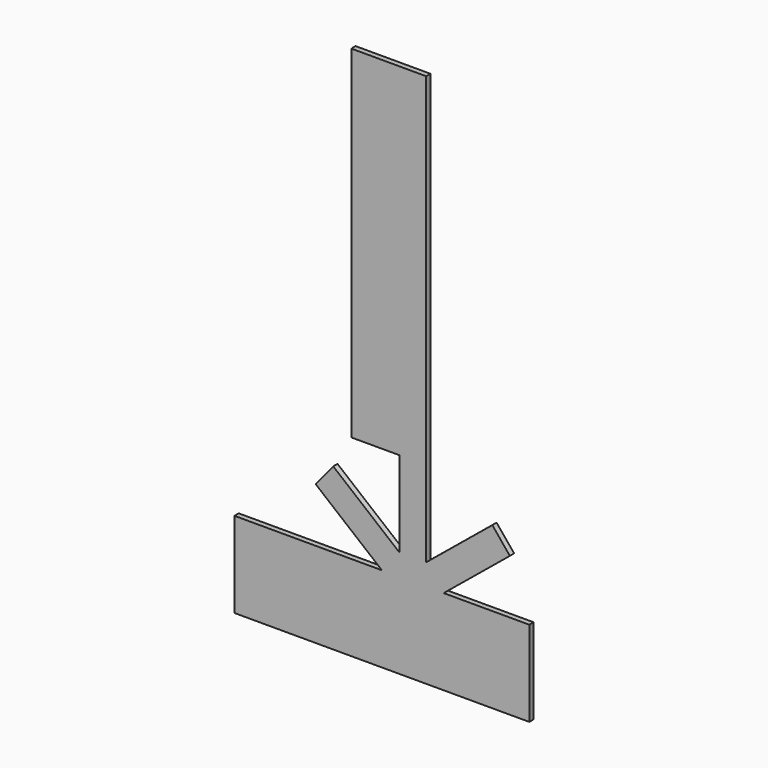
from build123d import *

# Parameters (mm, degrees)
F0_W     = 36.703
F0_H     = 50.8
F1_DEPTH = 3.175


with BuildPart() as f1:
    # F0 (on Front) → F1 (new body)
    with BuildSketch(Plane.XZ):
        Polygon((22.225, -101.6), (22.225, 101.6), (-22.225, 101.6), (-22.225, -101.6), (-6.35, -101.6), (6.35, -101.6), (6.35, -152.4), (-32.932004, -120.188757), (-43.346004, -132.888757), (-4.064, -165.1), (-54.864, -165.1), (-54.864, -215.9), (-4.064, -215.9), (14.2875, -215.9), (32.639, -215.9), (83.439, -215.9), (83.439, -165.1), (32.639, -165.1), (71.921004, -132.888757), (61.507004, -120.188757), (22.225, -152.4), align=None)
        with Locations((-73.2155, -190.5)):
            Rectangle(F0_W, F0_H)
    extrude(amount=F1_DEPTH)


solid = f1.part
